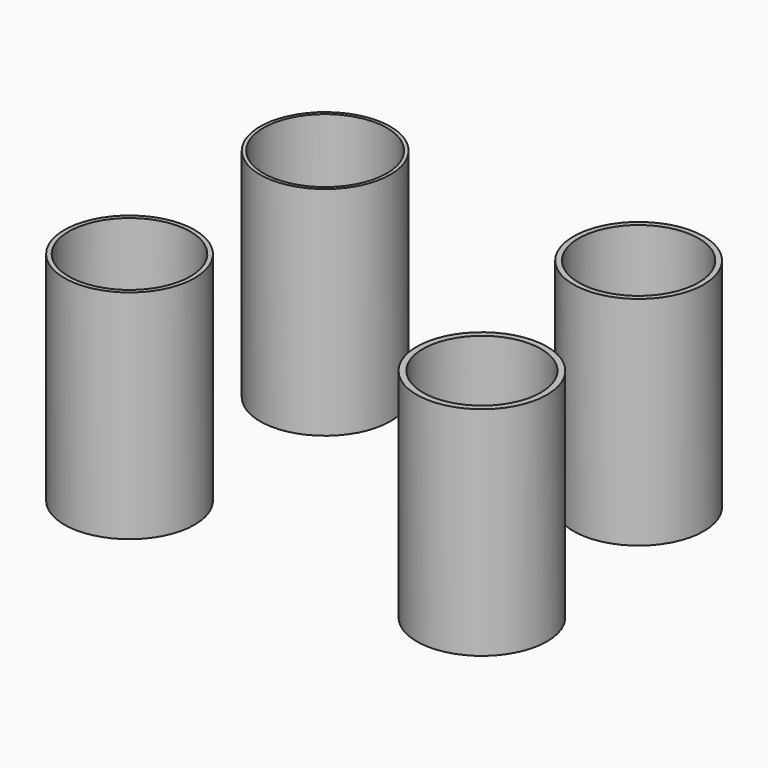
from build123d import *

# Parameters (mm, degrees)
F0_R     = 7.5
F0_R_2   = 7.1
F0_R_3   = 7
F0_R_4   = 6.9
F0_R_5   = 6.8
F1_DEPTH = 25


with BuildPart() as f1:
    # F0 (on Top) → F1 (new body)
    with BuildSketch(Plane.XY):
        with Locations((-62.662691, 34.443732)):
            Circle(F0_R)
        with Locations((-62.662691, 34.443732)):
            Circle(F0_R_2, mode=Mode.SUBTRACT)
        with Locations((-63.822366, 7.741257)):
            Circle(F0_R)
        with Locations((-63.822366, 7.741257)):
            Circle(F0_R_3, mode=Mode.SUBTRACT)
        with Locations((-27.302256, 35.348251)):
            Circle(F0_R)
        with Locations((-27.302256, 35.348251)):
            Circle(F0_R_4, mode=Mode.SUBTRACT)
        with Locations((-24.891498, 9.785793)):
            Circle(F0_R)
        with Locations((-24.891498, 9.785793)):
            Circle(F0_R_5, mode=Mode.SUBTRACT)
    extrude(amount=F1_DEPTH)


solid = f1.part
